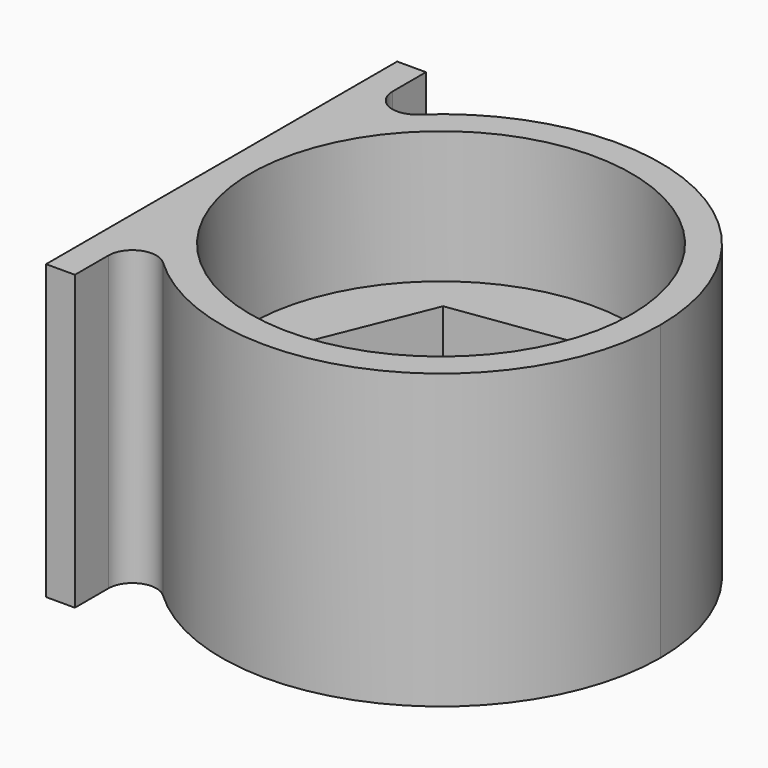
from build123d import *

# Parameters (mm, degrees)
F3_DEPTH = 24.4
F4_DEPTH = 2.4
F5_DEPTH = 13.4
F6_R     = 2


with BuildPart() as f3:
    # F2 (on Top) → F3 (new body)
    with BuildSketch(Plane.XY):
        with BuildLine():
            Line((-15.865, -9.0505248467), (-15.865, 0))
            Line((-15.865, 0), (-15.865, 9.0505248467))
            ThreePointArc((-15.865, 9.0505248467), (-17.6548074189, 4.68166637), (-18.265, 0))
            ThreePointArc((-18.265, 0), (-17.6548074189, -4.68166637), (-15.865, -9.0505248467))
        make_face()
        with BuildLine():
            ThreePointArc((-18.265, 0), (-17.6548074189, 4.68166637), (-15.865, 9.0505248467))
            Line((-15.865, 9.0505248467), (-15.865, 18.265))
            Line((-15.865, 18.265), (-18.265, 18.265))
            Line((-18.265, 18.265), (-18.265, 0))
        make_face()
        with BuildLine():
            Line((-15.865, -18.265), (-15.865, -9.0505248467))
            ThreePointArc((-15.865, -9.0505248467), (-17.6548074189, -4.68166637), (-18.265, 0))
            Line((-18.265, 0), (-18.265, -18.265))
            Line((-18.265, -18.265), (-15.865, -18.265))
        make_face()
        with BuildLine():
            Line((-15.865, 9.0505248467), (-15.865, 0))
            Line((-15.865, 0), (-15.865, -9.0505248467))
            ThreePointArc((-15.865, -9.0505248467), (4.68166637, -17.6548074189), (18.265, 0))
            ThreePointArc((18.265, 0), (4.68166637, 17.6548074189), (-15.865, 9.0505248467))
        make_face()
        with BuildLine():
            ThreePointArc((-15.865, 0), (0, 15.865), (15.865, 0))
            ThreePointArc((15.865, 0), (0, -15.865), (-15.865, 0))
        make_face(mode=Mode.SUBTRACT)
    extrude(amount=F3_DEPTH)

    # F2 (on Top) → F4 (join)
    with BuildSketch(Plane.XY):
        with BuildLine():
            Line((-15.865, 9.0505248467), (-15.865, 0))
            Line((-15.865, 0), (-15.865, -9.0505248467))
            ThreePointArc((-15.865, -9.0505248467), (4.68166637, -17.6548074189), (18.265, 0))
            ThreePointArc((18.265, 0), (4.68166637, 17.6548074189), (-15.865, 9.0505248467))
        make_face()
        with BuildLine():
            ThreePointArc((-15.865, 0), (0, 15.865), (15.865, 0))
            ThreePointArc((15.865, 0), (0, -15.865), (-15.865, 0))
        make_face(mode=Mode.SUBTRACT)
        with BuildLine():
            ThreePointArc((-15.865, 0), (0, -15.865), (15.865, 0))
            ThreePointArc((15.865, 0), (0, 15.865), (-15.865, 0))
        make_face()
        Polygon((-7.6111814104, 9.7325870595), (4.6230769329, 11.457769984), (12.2342583433, 1.7251829245), (7.6111814104, -9.7325870595), (-4.6230769329, -11.457769984), (-12.2342583433, -1.7251829245), align=None, mode=Mode.SUBTRACT)
        Polygon((12.2342583433, 1.7251829245), (4.6230769329, 11.457769984), (-7.6111814104, 9.7325870595), (-12.2342583433, -1.7251829245), (-4.6230769329, -11.457769984), (7.6111814104, -9.7325870595), align=None)
    extrude(amount=F4_DEPTH)

    # F2 (on Top) → F5 (join)
    with BuildSketch(Plane.XY):
        with BuildLine():
            ThreePointArc((-15.865, 0), (0, -15.865), (15.865, 0))
            ThreePointArc((15.865, 0), (0, 15.865), (-15.865, 0))
        make_face()
        Polygon((-7.6111814104, 9.7325870595), (4.6230769329, 11.457769984), (12.2342583433, 1.7251829245), (7.6111814104, -9.7325870595), (-4.6230769329, -11.457769984), (-12.2342583433, -1.7251829245), align=None, mode=Mode.SUBTRACT)
    extrude(amount=F5_DEPTH)

    # F6
    f6_edges = [f3.edges().sort_by_distance(p)[0] for p in [
        (-15.865, -9.050525, 12.2),
        (-15.865, 9.050525, 12.2),
    ]]
    fillet(f6_edges, radius=F6_R)


solid = f3.part
